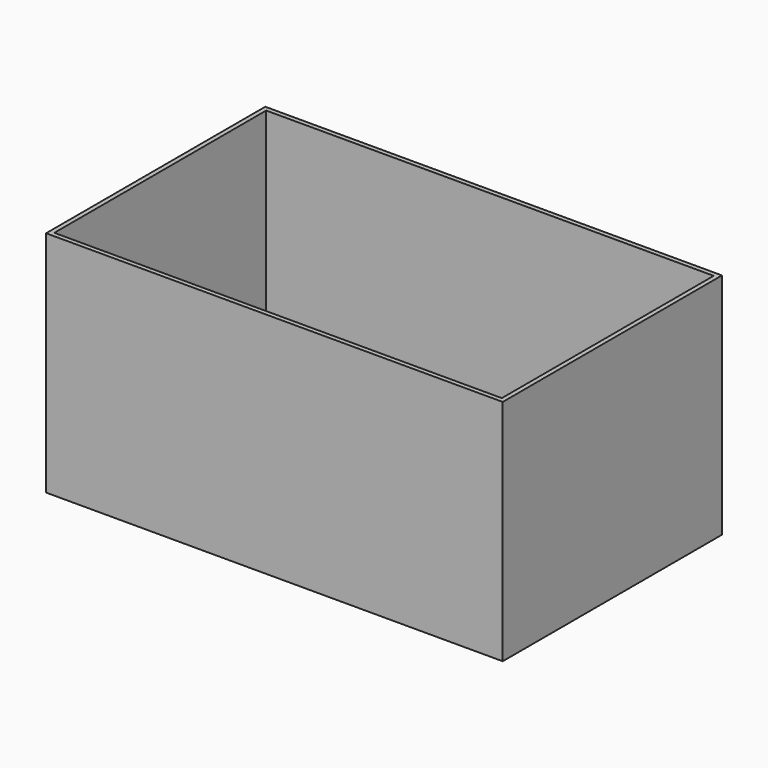
from build123d import *

# Parameters (mm, degrees)
F0_W      = 50
F0_H      = 30
F1_DEPTH  = 25
F2_W      = 49
F2_H      = 29
F1_FACE_W = 50
F1_FACE_H = 30
F3_DEPTH  = 25


with BuildPart() as f1:
    # F0 (on Top) → F1 (new body)
    with BuildSketch(Plane.XY):
        Rectangle(F0_W, F0_H)
    extrude(amount=F1_DEPTH)

    # F2 (on Top) + F1_face (on face) → F3 (cut)
    with BuildSketch(Plane.XY):
        Rectangle(F2_W, F2_H)
    with BuildSketch(Plane.XY.offset(25)):
        Rectangle(F1_FACE_W, F1_FACE_H)
    extrude(amount=F3_DEPTH, mode=Mode.SUBTRACT)


solid = f1.part
